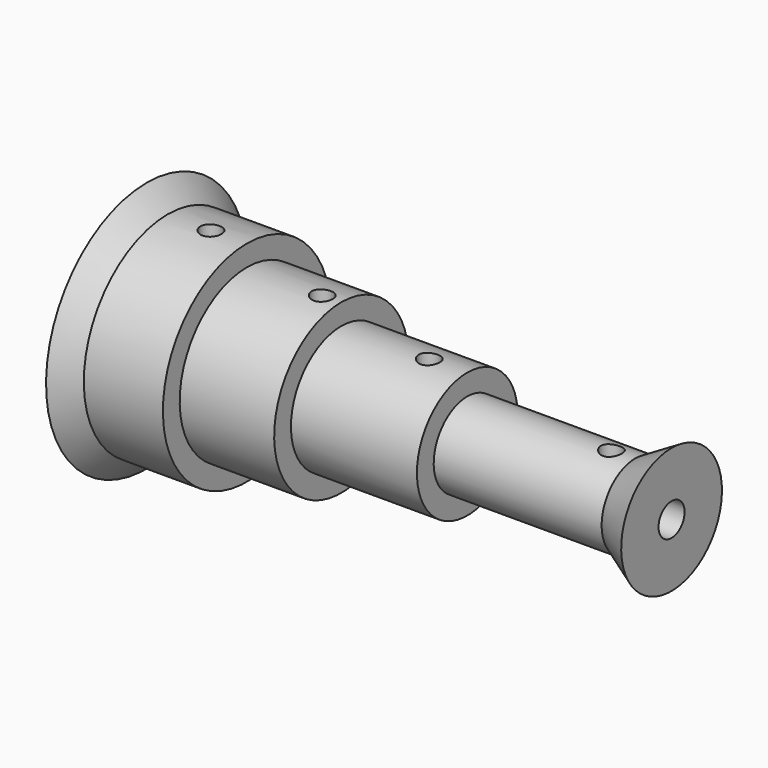
from build123d import *

# Parameters (mm, degrees)
F2_R     = 0.5
F3_DEPTH = 12.5


with BuildPart() as f1:
    # F0 (on Front) → F1 (revolve)
    with BuildSketch(Plane.XZ):
        Polygon((1, 5), (0, 6), (0, 0.775), (25, 0.775), (25, 3), (23.267949, 2), (15.267949, 2), (15.267949, 3), (9.267949, 3), (9.267949, 4), (4.767949, 4), (4.767949, 5), align=None)
    revolve(axis=Axis((6.044726, 0, 0), (1, 0, 0)))

    # F2 (on Top) → F3 (cut, symmetric)
    with BuildSketch(Plane.XY):
        with Locations((3.057949, 0)):
            Circle(F2_R)
        with Locations((8.358715, 0)):
            Circle(F2_R)
        with Locations((13.456892, 0)):
            Circle(F2_R)
        with Locations((22.136655, 0)):
            Circle(F2_R)
    extrude(amount=F3_DEPTH, both=True, mode=Mode.SUBTRACT)


solid = f1.part
